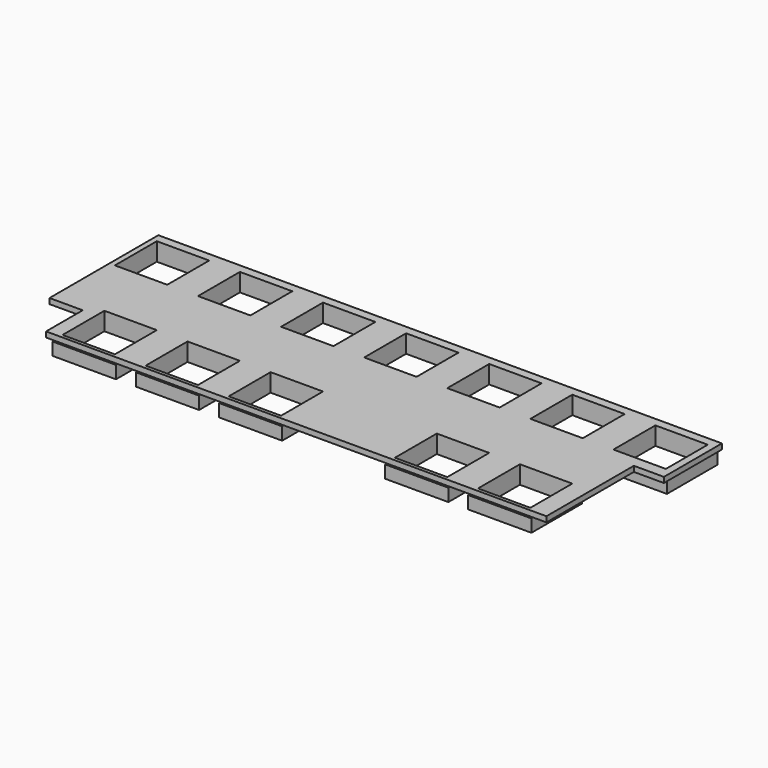
from build123d import *

# Parameters (mm, degrees)
SKETCH001_W     = 156
SKETCH001_H     = 50.32
PAD_DEPTH       = 1.5
SKETCH004_W     = 17.5
SKETCH004_H     = 17.5
PAD001_DEPTH    = 3.5
SKETCH005_R     = 3.7
SKETCH005_W     = 14.5
SKETCH005_H     = 14.5
POCKET_DEPTH    = 5
SKETCH007_W     = 14.19
SKETCH007_H     = 16.92
SKETCH007_W_2   = 17.17
SKETCH007_H_2   = 38.96
POCKET001_DEPTH = 5


with BuildPart() as part:
    # Sketch001 → Pad (new body)
    with BuildSketch(Plane.XY):
        with Locations((121, -79.51)):
            Rectangle(SKETCH001_W, SKETCH001_H)
    extrude(amount=PAD_DEPTH)

    # Sketch004 (on DatumPlane) → Pad001 (join)
    with BuildSketch(Plane(origin=(0, 0, 0), x_dir=(1, 0, 0), z_dir=(0, 0, -1))):
        with Locations((51.75, 64)):
            Rectangle(SKETCH004_W, SKETCH004_H)
        with Locations((74.75, 64)):
            Rectangle(SKETCH004_W, SKETCH004_H)
        with Locations((97.75, 64)):
            Rectangle(SKETCH004_W, SKETCH004_H)
        with Locations((120.75, 64)):
            Rectangle(SKETCH004_W, SKETCH004_H)
        with Locations((143.75, 64)):
            Rectangle(SKETCH004_W, SKETCH004_H)
        with Locations((166.75, 64)):
            Rectangle(SKETCH004_W, SKETCH004_H)
        with Locations((189.75, 64)):
            Rectangle(SKETCH004_W, SKETCH004_H)
        with Locations((63.25, 96.5)):
            Rectangle(SKETCH004_W, SKETCH004_H)
        with Locations((86.25, 96.5)):
            Rectangle(SKETCH004_W, SKETCH004_H)
        with Locations((109.25, 96.5)):
            Rectangle(SKETCH004_W, SKETCH004_H)
        with Locations((155.25, 96.5)):
            Rectangle(SKETCH004_W, SKETCH004_H)
        with Locations((178.25, 96.5)):
            Rectangle(SKETCH004_W, SKETCH004_H)
    extrude(amount=PAD001_DEPTH)

    # Sketch005 (on DatumPlane) → Pocket (cut)
    with BuildSketch(Plane.XY.offset(1.5)):
        with Locations((114, -109)):
            Circle(SKETCH005_R)
        with Locations((51.75, -64)):
            Rectangle(SKETCH005_W, SKETCH005_H)
        with Locations((74.75, -64)):
            Rectangle(SKETCH005_W, SKETCH005_H)
        with Locations((97.75, -64)):
            Rectangle(SKETCH005_W, SKETCH005_H)
        with Locations((120.75, -64)):
            Rectangle(SKETCH005_W, SKETCH005_H)
        with Locations((143.75, -64)):
            Rectangle(SKETCH005_W, SKETCH005_H)
        with Locations((166.75, -64)):
            Rectangle(SKETCH005_W, SKETCH005_H)
        with Locations((189.75, -64)):
            Rectangle(SKETCH005_W, SKETCH005_H)
        with Locations((63.25, -96.5)):
            Rectangle(SKETCH005_W, SKETCH005_H)
        with Locations((86.25, -96.5)):
            Rectangle(SKETCH005_W, SKETCH005_H)
        with Locations((109.25, -96.5)):
            Rectangle(SKETCH005_W, SKETCH005_H)
        with Locations((155.25, -96.5)):
            Rectangle(SKETCH005_W, SKETCH005_H)
        with Locations((178.25, -96.5)):
            Rectangle(SKETCH005_W, SKETCH005_H)
    extrude(amount=-POCKET_DEPTH, mode=Mode.SUBTRACT)

    # Sketch007 → Pocket001 (cut)
    with BuildSketch(Plane.XY.offset(1.5)):
        with Locations((45.095, -100.46)):
            Rectangle(SKETCH007_W, SKETCH007_H)
        with Locations((199.265, -93.9)):
            Rectangle(SKETCH007_W_2, SKETCH007_H_2)
    extrude(amount=-POCKET001_DEPTH, mode=Mode.SUBTRACT)


solid = part.part
